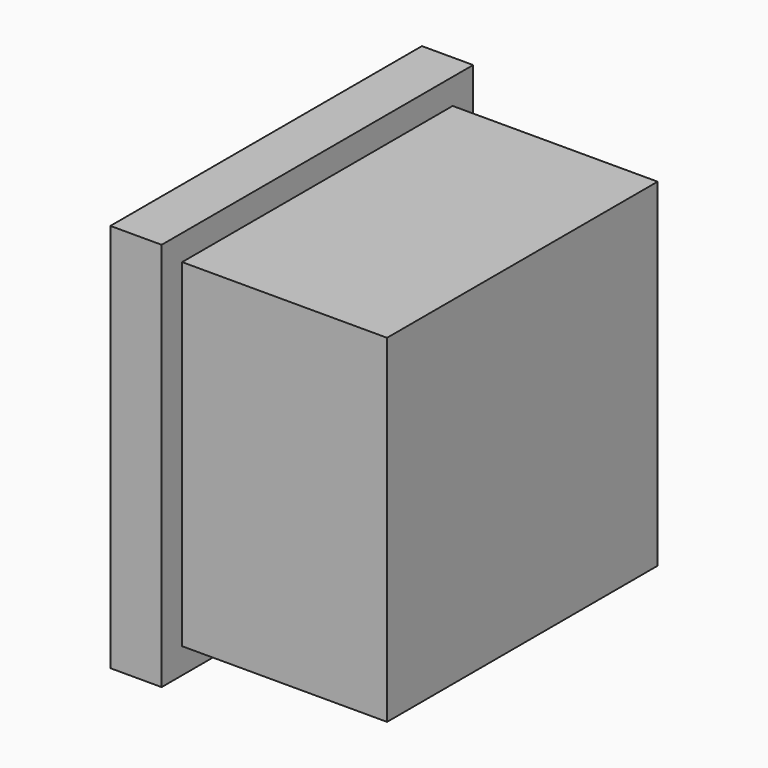
from build123d import *

# Parameters (mm, degrees)
F0_W     = 33
F0_H     = 33
F1_DEPTH = 20
F0_W_2   = 38
F0_H_2   = 38
F2_DEPTH = 5


with BuildPart() as f1:
    # F0 (on Right) → F1 (new body)
    with BuildSketch(Plane.YZ):
        Rectangle(F0_W, F0_H)
    extrude(amount=F1_DEPTH)

    # F0 (on Right) → F2 (join)
    with BuildSketch(Plane.YZ):
        Rectangle(F0_W_2, F0_H_2)
        Rectangle(F0_W, F0_H, mode=Mode.SUBTRACT)
        Rectangle(F0_W, F0_H)
    extrude(amount=-F2_DEPTH)


solid = f1.part
